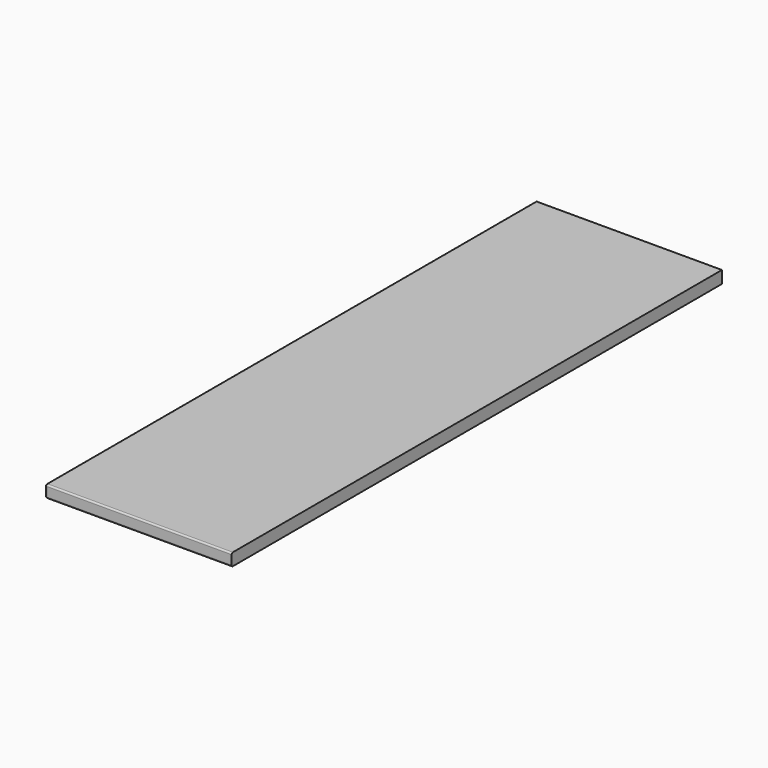
from build123d import *

# Parameters (mm, degrees)
F0_W     = 605
F0_H     = 1990
F1_DEPTH = 20
F2_R     = 5


with BuildPart() as f1:
    # F0 (on Top) → F1 (new body, symmetric)
    with BuildSketch(Plane.XY):
        Rectangle(F0_W, F0_H)
    extrude(amount=F1_DEPTH, both=True)

    # F2
    f2_edges = [f1.edges().sort_by_distance(p)[0] for p in [
        (-302.5, 0, 20),
        (-302.5, -995, 0),
        (0, -995, 20),
        (0, -995, -20),
        (-302.5, 0, -20),
    ]]
    fillet(f2_edges, radius=F2_R)


solid = f1.part
